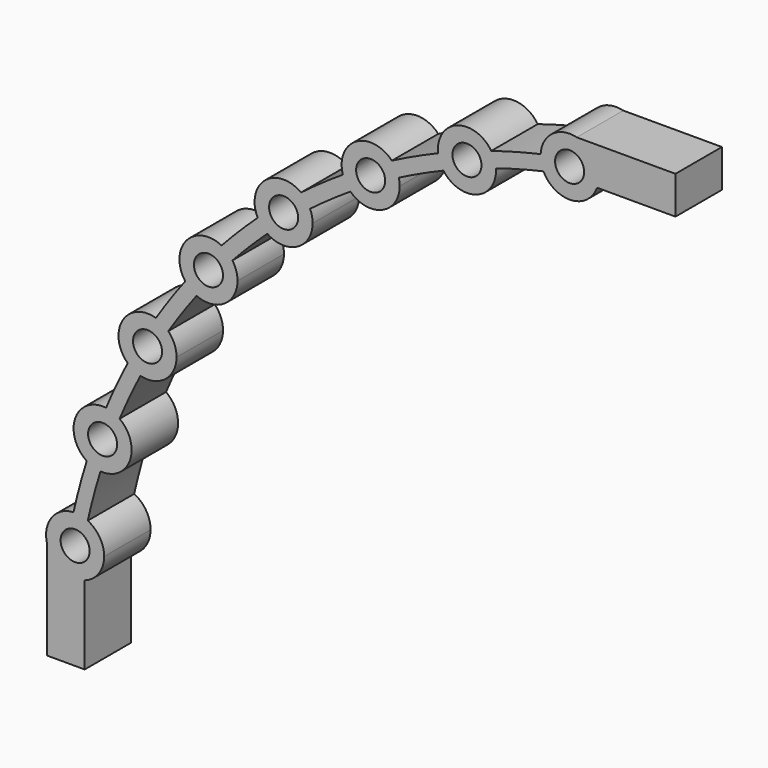
from build123d import *

# Parameters (mm, degrees)
F1_DEPTH = 10
F2_D     = 5
F2_DEPTH = 25
F2_TIP   = 1.5021515476
F3_DEPTH = 10
F4_D     = 5
F4_DEPTH = 25
F4_TIP   = 1.5021515476


with BuildPart() as f1:
    # F0 (on Front) → F1 (new body)
    with BuildSketch(Plane.XZ):
        with BuildLine():
            ThreePointArc((-104.7141943578, 18), (-104.2300860658, 20.6192060639), (-103.6804744694, 23.2254540062))
            ThreePointArc((-103.6804744694, 23.2254540062), (-107.4358876221, 21.1911739312), (-108.25, 16.998484531))
            Line((-108.25, 16.998484531), (-108.25, 18))
            Line((-108.25, 18), (-104.7141943578, 18))
        make_face()
        with BuildLine():
            ThreePointArc((-101.75, 13.5148396684), (-99.325961879, 15.3411795368), (-98.4048140663, 18.233058655))
            ThreePointArc((-98.4048140663, 18.233058655), (-99.1691476023, 20.8899609125), (-101.2284659086, 22.7345593711))
            ThreePointArc((-101.2284659086, 22.7345593711), (-101.7300922405, 20.37279639), (-102.176624039, 18))
            Line((-102.176624039, 18), (-101.75, 18))
            Line((-101.75, 18), (-101.75, 13.5148396684))
        make_face()
        with BuildLine():
            ThreePointArc((-103.6804744694, 23.2254540062), (-102.4232857321, 23.1357724065), (-101.2284659086, 22.7345593711))
            ThreePointArc((-101.2284659086, 22.7345593711), (-100.2148044775, 26.8524759294), (-99.0337027485, 30.9255269951))
            ThreePointArc((-99.0337027485, 30.9255269951), (-100.2690535864, 31.1754762258), (-101.40265177, 31.7264040509))
            ThreePointArc((-101.40265177, 31.7264040509), (-102.6296190432, 27.4995235421), (-103.6804744694, 23.2254540062))
        make_face()
        with BuildLine():
            ThreePointArc((-102.176624039, 18), (-101.7300922405, 20.37279639), (-101.2284659086, 22.7345593711))
            ThreePointArc((-101.2284659086, 22.7345593711), (-102.4232857321, 23.1357724065), (-103.6804744694, 23.2254540062))
            ThreePointArc((-103.6804744694, 23.2254540062), (-104.2300860658, 20.6192060639), (-104.7141943578, 18))
            Line((-104.7141943578, 18), (-102.176624039, 18))
        make_face()
        with BuildLine():
            ThreePointArc((-98.0722773298, 40.8765326238), (-103.3661882864, 37.6222157658), (-101.40265177, 31.7264040509))
            ThreePointArc((-101.40265177, 31.7264040509), (-99.8423409585, 36.3396402284), (-98.0722773298, 40.8765326238))
        make_face()
        with BuildLine():
            ThreePointArc((-101.40265177, 31.7264040509), (-100.2690535864, 31.1754762258), (-99.0337027485, 30.9255269951))
            ThreePointArc((-99.0337027485, 30.9255269951), (-97.4931094065, 35.48458987), (-95.7427632475, 39.967308963))
            ThreePointArc((-95.7427632475, 39.967308963), (-96.8497611607, 40.5699049559), (-98.0722773298, 40.8765326238))
            ThreePointArc((-98.0722773298, 40.8765326238), (-99.8423409585, 36.3396402284), (-101.40265177, 31.7264040509))
        make_face()
        with BuildLine():
            ThreePointArc((-95.7427632475, 39.967308963), (-97.4931094065, 35.48458987), (-99.0337027485, 30.9255269951))
            ThreePointArc((-99.0337027485, 30.9255269951), (-95.2640424586, 32.2494733912), (-93.6677251825, 35.9121150492))
            ThreePointArc((-93.6677251825, 35.9121150492), (-94.2166124185, 38.1897443347), (-95.7427632475, 39.967308963))
        make_face()
        with BuildLine():
            Line((-18, 108.25), (-16.998484531, 108.25))
            ThreePointArc((-16.998484531, 108.25), (-21.1911739312, 107.4358876221), (-23.2254540062, 103.6804744694))
            ThreePointArc((-23.2254540062, 103.6804744694), (-20.6192060639, 104.2300860658), (-18, 104.7141943578))
            Line((-18, 104.7141943578), (-18, 108.25))
        make_face()
        with BuildLine():
            ThreePointArc((-22.7345593711, 101.2284659086), (-20.37279639, 101.7300922405), (-18, 102.176624039))
            Line((-18, 102.176624039), (-18, 104.7141943578))
            ThreePointArc((-18, 104.7141943578), (-20.6192060639, 104.2300860658), (-23.2254540062, 103.6804744694))
            ThreePointArc((-23.2254540062, 103.6804744694), (-23.1357724065, 102.4232857321), (-22.7345593711, 101.2284659086))
        make_face()
        with BuildLine():
            ThreePointArc((-22.7345593711, 101.2284659086), (-17.9506738921, 98.4127945505), (-13.5148396684, 101.75))
            Line((-13.5148396684, 101.75), (-18, 101.75))
            Line((-18, 101.75), (-18, 102.176624039))
            ThreePointArc((-18, 102.176624039), (-20.37279639, 101.7300922405), (-22.7345593711, 101.2284659086))
        make_face()
        with BuildLine():
            ThreePointArc((-30.9255269951, 99.0337027485), (-26.8524759294, 100.2148044775), (-22.7345593711, 101.2284659086))
            ThreePointArc((-22.7345593711, 101.2284659086), (-23.1357724065, 102.4232857321), (-23.2254540062, 103.6804744694))
            ThreePointArc((-23.2254540062, 103.6804744694), (-27.4995235421, 102.6296190432), (-31.7264040509, 101.40265177))
            ThreePointArc((-31.7264040509, 101.40265177), (-31.1754762258, 100.2690535864), (-30.9255269951, 99.0337027485))
        make_face()
        with BuildLine():
            ThreePointArc((-39.967308963, 95.7427632475), (-35.48458987, 97.4931094065), (-30.9255269951, 99.0337027485))
            ThreePointArc((-30.9255269951, 99.0337027485), (-31.1754762258, 100.2690535864), (-31.7264040509, 101.40265177))
            ThreePointArc((-31.7264040509, 101.40265177), (-36.3396402284, 99.8423409585), (-40.8765326238, 98.0722773298))
            ThreePointArc((-40.8765326238, 98.0722773298), (-40.5699049559, 96.8497611607), (-39.967308963, 95.7427632475))
        make_face()
        with BuildLine():
            ThreePointArc((-40.8765326238, 98.0722773298), (-36.3396402284, 99.8423409585), (-31.7264040509, 101.40265177))
            ThreePointArc((-31.7264040509, 101.40265177), (-37.6222157658, 103.3661882864), (-40.8765326238, 98.0722773298))
        make_face()
        with BuildLine():
            ThreePointArc((-30.9121150492, 98.6677251825), (-30.9154691607, 98.8508368009), (-30.9255269951, 99.0337027485))
            ThreePointArc((-30.9255269951, 99.0337027485), (-35.48458987, 97.4931094065), (-39.967308963, 95.7427632475))
            ThreePointArc((-39.967308963, 95.7427632475), (-34.3752301428, 93.9097860505), (-30.9121150492, 98.6677251825))
        make_face()
        with BuildLine():
            ThreePointArc((-47.6527207606, 92.1589968701), (-51.875, 89.8501356426), (-55.9856720965, 87.3479651732))
            ThreePointArc((-55.9856720965, 87.3479651732), (-50.5542816857, 86.3267820057), (-47.5, 90.9326673974))
            ThreePointArc((-47.5, 90.9326673974), (-47.5383270867, 91.5505686044), (-47.6527207606, 92.1589968701))
        make_face()
        with BuildLine():
            ThreePointArc((-48.852794375, 94.3528853918), (-48.1133891227, 93.3321767245), (-47.6527207606, 92.1589968701))
            ThreePointArc((-47.6527207606, 92.1589968701), (-43.8466446556, 94.0294329051), (-39.967308963, 95.7427632475))
            ThreePointArc((-39.967308963, 95.7427632475), (-40.5699049559, 96.8497611607), (-40.8765326238, 98.0722773298))
            ThreePointArc((-40.8765326238, 98.0722773298), (-44.9031903099, 96.2952023726), (-48.852794375, 94.3528853918))
        make_face()
        with BuildLine():
            ThreePointArc((-57.2855984821, 89.4842036705), (-56.7713414726, 88.3335056047), (-55.9856720965, 87.3479651732))
            ThreePointArc((-55.9856720965, 87.3479651732), (-51.875, 89.8501356426), (-47.6527207606, 92.1589968701))
            ThreePointArc((-47.6527207606, 92.1589968701), (-48.1133891227, 93.3321767245), (-48.852794375, 94.3528853918))
            ThreePointArc((-48.852794375, 94.3528853918), (-53.125, 92.0151991521), (-57.2855984821, 89.4842036705))
        make_face()
        with BuildLine():
            ThreePointArc((-48.852794375, 94.3528853918), (-55, 95.2627944163), (-57.2855984821, 89.4842036705))
            ThreePointArc((-57.2855984821, 89.4842036705), (-53.125, 92.0151991521), (-48.852794375, 94.3528853918))
        make_face()
        with BuildLine():
            ThreePointArc((-64.4948172627, 84.4362543357), (-63.5894010376, 83.5594489013), (-62.9320107193, 82.4840865066))
            ThreePointArc((-62.9320107193, 82.4840865066), (-59.5085552714, 84.987024595), (-55.9856720965, 87.3479651732))
            ThreePointArc((-55.9856720965, 87.3479651732), (-56.7713414726, 88.3335056047), (-57.2855984821, 89.4842036705))
            ThreePointArc((-57.2855984821, 89.4842036705), (-60.9424963623, 87.0349047057), (-64.4948172627, 84.4362543357))
        make_face()
        with BuildLine():
            ThreePointArc((-64.4948172627, 84.4362543357), (-70.7066370655, 84.2648887431), (-71.9540704185, 78.1771977639))
            ThreePointArc((-71.9540704185, 78.1771977639), (-68.2961835292, 81.3922220814), (-64.4948172627, 84.4362543357))
        make_face()
        with BuildLine():
            ThreePointArc((-62.9320107193, 82.4840865066), (-66.689214505, 79.4771109736), (-70.3029389135, 76.2991433774))
            ThreePointArc((-70.3029389135, 76.2991433774), (-65.152955386, 76.0158884452), (-62.4926990171, 80.4346665275))
            ThreePointArc((-62.4926990171, 80.4346665275), (-62.6037604059, 81.4826547219), (-62.9320107193, 82.4840865066))
        make_face()
        with BuildLine():
            ThreePointArc((-71.9540704185, 78.1771977639), (-71.2478095063, 77.1332811798), (-70.3029389135, 76.2991433774))
            ThreePointArc((-70.3029389135, 76.2991433774), (-66.689214505, 79.4771109736), (-62.9320107193, 82.4840865066))
            ThreePointArc((-62.9320107193, 82.4840865066), (-63.5894010376, 83.5594489013), (-64.4948172627, 84.4362543357))
            ThreePointArc((-64.4948172627, 84.4362543357), (-68.2961835292, 81.3922220814), (-71.9540704185, 78.1771977639))
        make_face()
        with BuildLine():
            ThreePointArc((-78.1771977639, 71.9540704185), (-77.1332811798, 71.2478095063), (-76.2991433774, 70.3029389135))
            ThreePointArc((-76.2991433774, 70.3029389135), (-73.3623285481, 73.3623285481), (-70.3029389135, 76.2991433774))
            ThreePointArc((-70.3029389135, 76.2991433774), (-71.2478095063, 77.1332811798), (-71.9540704185, 78.1771977639))
            ThreePointArc((-71.9540704185, 78.1771977639), (-75.1300955011, 75.1300955011), (-78.1771977639, 71.9540704185))
        make_face()
        with BuildLine():
            ThreePointArc((-84.4362543357, 64.4948172627), (-83.5594489013, 63.5894010376), (-82.4840865066, 62.9320107193))
            ThreePointArc((-82.4840865066, 62.9320107193), (-79.4771109736, 66.689214505), (-76.2991433774, 70.3029389135))
            ThreePointArc((-76.2991433774, 70.3029389135), (-77.1332811798, 71.2478095063), (-78.1771977639, 71.9540704185))
            ThreePointArc((-78.1771977639, 71.9540704185), (-81.3922220814, 68.2961835292), (-84.4362543357, 64.4948172627))
        make_face()
        with BuildLine():
            ThreePointArc((-76.2991433774, 70.3029389135), (-79.4771109736, 66.689214505), (-82.4840865066, 62.9320107193))
            ThreePointArc((-82.4840865066, 62.9320107193), (-77.7187044415, 63.2946578134), (-75.4346665275, 67.4926990171))
            ThreePointArc((-75.4346665275, 67.4926990171), (-75.6556699932, 68.9627983759), (-76.2991433774, 70.3029389135))
        make_face()
        with BuildLine():
            ThreePointArc((-78.1771977639, 71.9540704185), (-84.2648887431, 70.7066370655), (-84.4362543357, 64.4948172627))
            ThreePointArc((-84.4362543357, 64.4948172627), (-81.3922220814, 68.2961835292), (-78.1771977639, 71.9540704185))
        make_face()
        with BuildLine():
            ThreePointArc((-89.4842036705, 57.2855984821), (-88.3335056047, 56.7713414726), (-87.3479651732, 55.9856720965))
            ThreePointArc((-87.3479651732, 55.9856720965), (-84.987024595, 59.5085552714), (-82.4840865066, 62.9320107193))
            ThreePointArc((-82.4840865066, 62.9320107193), (-83.5594489013, 63.5894010376), (-84.4362543357, 64.4948172627))
            ThreePointArc((-84.4362543357, 64.4948172627), (-87.0349047057, 60.9424963623), (-89.4842036705, 57.2855984821))
        make_face()
        with BuildLine():
            ThreePointArc((-89.4842036705, 57.2855984821), (-95.2627944163, 55), (-94.3528853918, 48.852794375))
            ThreePointArc((-94.3528853918, 48.852794375), (-92.0151991521, 53.125), (-89.4842036705, 57.2855984821))
        make_face()
        with BuildLine():
            ThreePointArc((-94.3528853918, 48.852794375), (-93.3321767245, 48.1133891227), (-92.1589968701, 47.6527207606))
            ThreePointArc((-92.1589968701, 47.6527207606), (-89.8501356426, 51.875), (-87.3479651732, 55.9856720965))
            ThreePointArc((-87.3479651732, 55.9856720965), (-88.3335056047, 56.7713414726), (-89.4842036705, 57.2855984821))
            ThreePointArc((-89.4842036705, 57.2855984821), (-92.0151991521, 53.125), (-94.3528853918, 48.852794375))
        make_face()
        with BuildLine():
            ThreePointArc((-87.3479651732, 55.9856720965), (-89.8501356426, 51.875), (-92.1589968701, 47.6527207606))
            ThreePointArc((-92.1589968701, 47.6527207606), (-87.8611569679, 48.5546453034), (-85.9326673974, 52.5))
            ThreePointArc((-85.9326673974, 52.5), (-86.2999839892, 54.3810221795), (-87.3479651732, 55.9856720965))
        make_face()
        with BuildLine():
            ThreePointArc((-98.0722773298, 40.8765326238), (-96.8497611607, 40.5699049559), (-95.7427632475, 39.967308963))
            ThreePointArc((-95.7427632475, 39.967308963), (-94.0294329051, 43.8466446556), (-92.1589968701, 47.6527207606))
            ThreePointArc((-92.1589968701, 47.6527207606), (-93.3321767245, 48.1133891227), (-94.3528853918, 48.852794375))
            ThreePointArc((-94.3528853918, 48.852794375), (-96.2952023726, 44.9031903099), (-98.0722773298, 40.8765326238))
        make_face()
        with BuildLine():
            ThreePointArc((-18, 104.7141943578), (-15.8214238003, 105.0654322265), (-13.6360229941, 105.3713498865))
            ThreePointArc((-13.6360229941, 105.3713498865), (-14.9813552876, 107.2030274897), (-16.998484531, 108.25))
            Line((-16.998484531, 108.25), (-18, 108.25))
            Line((-18, 108.25), (-18, 104.7141943578))
        make_face()
        with BuildLine():
            ThreePointArc((-13.6360229941, 105.3713498865), (-6.8321509995, 106.0301099345), (0, 106.25))
            Line((0, 106.25), (0, 108.25))
            Line((0, 108.25), (-16.998484531, 108.25))
            ThreePointArc((-16.998484531, 108.25), (-14.9813552876, 107.2030274897), (-13.6360229941, 105.3713498865))
        make_face()
        with BuildLine():
            ThreePointArc((-13.2586767409, 102.8993196823), (-6.6429693271, 103.5371115037), (0, 103.75))
            Line((0, 103.75), (0, 106.25))
            ThreePointArc((0, 106.25), (-6.8321509995, 106.0301099345), (-13.6360229941, 105.3713498865))
            ThreePointArc((-13.6360229941, 105.3713498865), (-13.3348355943, 104.4085126504), (-13.233058655, 103.4048140663))
            ThreePointArc((-13.233058655, 103.4048140663), (-13.2394672835, 103.151742506), (-13.2586767409, 102.8993196823))
        make_face()
        with BuildLine():
            ThreePointArc((-13.5148396684, 101.75), (-13.3528064086, 102.3170925893), (-13.2586767409, 102.8993196823))
            ThreePointArc((-13.2586767409, 102.8993196823), (-15.6335149645, 102.5653728597), (-18, 102.176624039))
            Line((-18, 102.176624039), (-18, 101.75))
            Line((-18, 101.75), (-13.5148396684, 101.75))
        make_face()
        with BuildLine():
            ThreePointArc((-18, 102.176624039), (-15.6335149645, 102.5653728597), (-13.2586767409, 102.8993196823))
            ThreePointArc((-13.2586767409, 102.8993196823), (-13.2394672835, 103.151742506), (-13.233058655, 103.4048140663))
            ThreePointArc((-13.233058655, 103.4048140663), (-13.3348355943, 104.4085126504), (-13.6360229941, 105.3713498865))
            ThreePointArc((-13.6360229941, 105.3713498865), (-15.8214238003, 105.0654322265), (-18, 104.7141943578))
            Line((-18, 104.7141943578), (-18, 102.176624039))
        make_face()
        with BuildLine():
            Line((0, 101.75), (0, 103.75))
            ThreePointArc((0, 103.75), (-6.6429693271, 103.5371115037), (-13.2586767409, 102.8993196823))
            ThreePointArc((-13.2586767409, 102.8993196823), (-13.3528064086, 102.3170925893), (-13.5148396684, 101.75))
            Line((-13.5148396684, 101.75), (0, 101.75))
        make_face()
        with BuildLine():
            Line((-108.25, 18), (-108.25, 16.998484531))
            ThreePointArc((-108.25, 16.998484531), (-107.2030274897, 14.9813552876), (-105.3713498865, 13.6360229941))
            ThreePointArc((-105.3713498865, 13.6360229941), (-105.0654322265, 15.8214238003), (-104.7141943578, 18))
            Line((-104.7141943578, 18), (-108.25, 18))
        make_face()
        with BuildLine():
            ThreePointArc((-102.8993196823, 13.2586767409), (-102.5653728597, 15.6335149645), (-102.176624039, 18))
            Line((-102.176624039, 18), (-104.7141943578, 18))
            ThreePointArc((-104.7141943578, 18), (-105.0654322265, 15.8214238003), (-105.3713498865, 13.6360229941))
            ThreePointArc((-105.3713498865, 13.6360229941), (-104.1593059935, 13.2903122594), (-102.8993196823, 13.2586767409))
        make_face()
        with BuildLine():
            ThreePointArc((-105.3713498865, 13.6360229941), (-107.2030274897, 14.9813552876), (-108.25, 16.998484531))
            Line((-108.25, 16.998484531), (-108.25, 0))
            Line((-108.25, 0), (-106.25, 0))
            ThreePointArc((-106.25, 0), (-106.0301099345, 6.8321509995), (-105.3713498865, 13.6360229941))
        make_face()
        with BuildLine():
            Line((-101.75, 0), (-101.75, 13.5148396684))
            ThreePointArc((-101.75, 13.5148396684), (-102.3170925893, 13.3528064086), (-102.8993196823, 13.2586767409))
            ThreePointArc((-102.8993196823, 13.2586767409), (-103.5371115037, 6.6429693271), (-103.75, 0))
            Line((-103.75, 0), (-101.75, 0))
        make_face()
        with BuildLine():
            ThreePointArc((-102.8993196823, 13.2586767409), (-102.3170925893, 13.3528064086), (-101.75, 13.5148396684))
            Line((-101.75, 13.5148396684), (-101.75, 18))
            Line((-101.75, 18), (-102.176624039, 18))
            ThreePointArc((-102.176624039, 18), (-102.5653728597, 15.6335149645), (-102.8993196823, 13.2586767409))
        make_face()
        with BuildLine():
            ThreePointArc((-103.75, 0), (-103.5371115037, 6.6429693271), (-102.8993196823, 13.2586767409))
            ThreePointArc((-102.8993196823, 13.2586767409), (-104.1593059935, 13.2903122594), (-105.3713498865, 13.6360229941))
            ThreePointArc((-105.3713498865, 13.6360229941), (-106.0301099345, 6.8321509995), (-106.25, 0))
            Line((-106.25, 0), (-103.75, 0))
        make_face()
    extrude(amount=F1_DEPTH)

    # F2
    with Locations(Plane(origin=(0, 0, 0), x_dir=(1, 0, 0), z_dir=(0, 1, 0))):
        with Locations((-103.4048140663, -18.233058655), (-98.6677251825, -35.9121150492), (-90.9326673974, -52.5), (-80.4346665275, -67.4926990171), (-67.4926990171, -80.4346665275), (-52.5, -90.9326673974), (-35.9121150492, -98.6677251825), (-18.233058655, -103.4048140663)):
            Hole(F2_D / 2, depth=F2_DEPTH)
            with Locations((0, 0, -(F2_DEPTH + F2_TIP / 2))):  # 118° drill point
                Cone(0, F2_D / 2, F2_TIP, mode=Mode.SUBTRACT)

    # F0 (on Front) → F3 (join)
    with BuildSketch(Plane.XZ):
        with BuildLine():
            ThreePointArc((-102.8993196823, 13.2586767409), (-102.3170925893, 13.3528064086), (-101.75, 13.5148396684))
            Line((-101.75, 13.5148396684), (-101.75, 18))
            Line((-101.75, 18), (-102.176624039, 18))
            ThreePointArc((-102.176624039, 18), (-102.5653728597, 15.6335149645), (-102.8993196823, 13.2586767409))
        make_face()
        with BuildLine():
            ThreePointArc((-102.8993196823, 13.2586767409), (-102.5653728597, 15.6335149645), (-102.176624039, 18))
            Line((-102.176624039, 18), (-104.7141943578, 18))
            ThreePointArc((-104.7141943578, 18), (-105.0654322265, 15.8214238003), (-105.3713498865, 13.6360229941))
            ThreePointArc((-105.3713498865, 13.6360229941), (-104.1593059935, 13.2903122594), (-102.8993196823, 13.2586767409))
        make_face()
        with BuildLine():
            Line((-108.25, 18), (-108.25, 16.998484531))
            ThreePointArc((-108.25, 16.998484531), (-107.2030274897, 14.9813552876), (-105.3713498865, 13.6360229941))
            ThreePointArc((-105.3713498865, 13.6360229941), (-105.0654322265, 15.8214238003), (-104.7141943578, 18))
            Line((-104.7141943578, 18), (-108.25, 18))
        make_face()
        with BuildLine():
            ThreePointArc((-105.3713498865, 13.6360229941), (-107.2030274897, 14.9813552876), (-108.25, 16.998484531))
            Line((-108.25, 16.998484531), (-108.25, 0))
            Line((-108.25, 0), (-106.25, 0))
            ThreePointArc((-106.25, 0), (-106.0301099345, 6.8321509995), (-105.3713498865, 13.6360229941))
        make_face()
        with BuildLine():
            ThreePointArc((-103.75, 0), (-103.5371115037, 6.6429693271), (-102.8993196823, 13.2586767409))
            ThreePointArc((-102.8993196823, 13.2586767409), (-104.1593059935, 13.2903122594), (-105.3713498865, 13.6360229941))
            ThreePointArc((-105.3713498865, 13.6360229941), (-106.0301099345, 6.8321509995), (-106.25, 0))
            Line((-106.25, 0), (-103.75, 0))
        make_face()
        with BuildLine():
            Line((-101.75, 0), (-101.75, 13.5148396684))
            ThreePointArc((-101.75, 13.5148396684), (-102.3170925893, 13.3528064086), (-102.8993196823, 13.2586767409))
            ThreePointArc((-102.8993196823, 13.2586767409), (-103.5371115037, 6.6429693271), (-103.75, 0))
            Line((-103.75, 0), (-101.75, 0))
        make_face()
    extrude(amount=F3_DEPTH)

    # F4
    with Locations(Plane(origin=(0, 0, 0), x_dir=(1, 0, 0), z_dir=(0, 1, 0))):
        with Locations((-103.4048140663, -18.233058655)):
            Hole(F4_D / 2, depth=F4_DEPTH)
            with Locations((0, 0, -(F4_DEPTH + F4_TIP / 2))):  # 118° drill point
                Cone(0, F4_D / 2, F4_TIP, mode=Mode.SUBTRACT)


solid = f1.part
